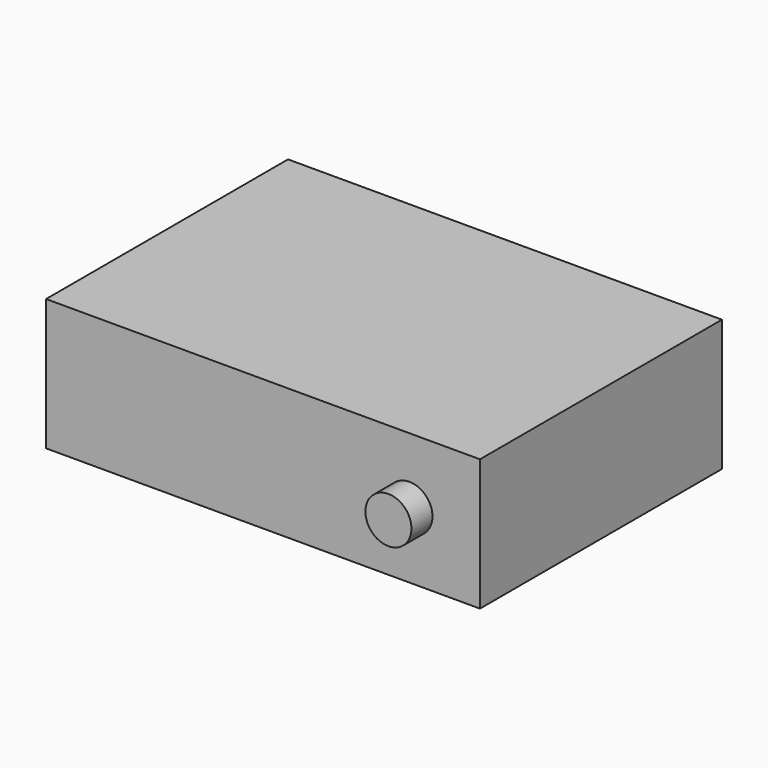
from build123d import *

# Parameters (mm, degrees)
F0_W     = 419.1
F0_H     = 292.1
F1_DEPTH = 127
F2_R     = 22.225
F3_DEPTH = 25.4


with BuildPart() as f1:
    # F0 (on Top) → F1 (new body)
    with BuildSketch(Plane.XY):
        Rectangle(F0_W, F0_H)
    extrude(amount=F1_DEPTH)

    # F2 (on face) → F3 (join)
    with BuildSketch(Plane.XZ.offset(146.05)):
        with Locations((141.425312, 63.5)):
            Circle(F2_R)
    extrude(amount=F3_DEPTH)


solid = f1.part
